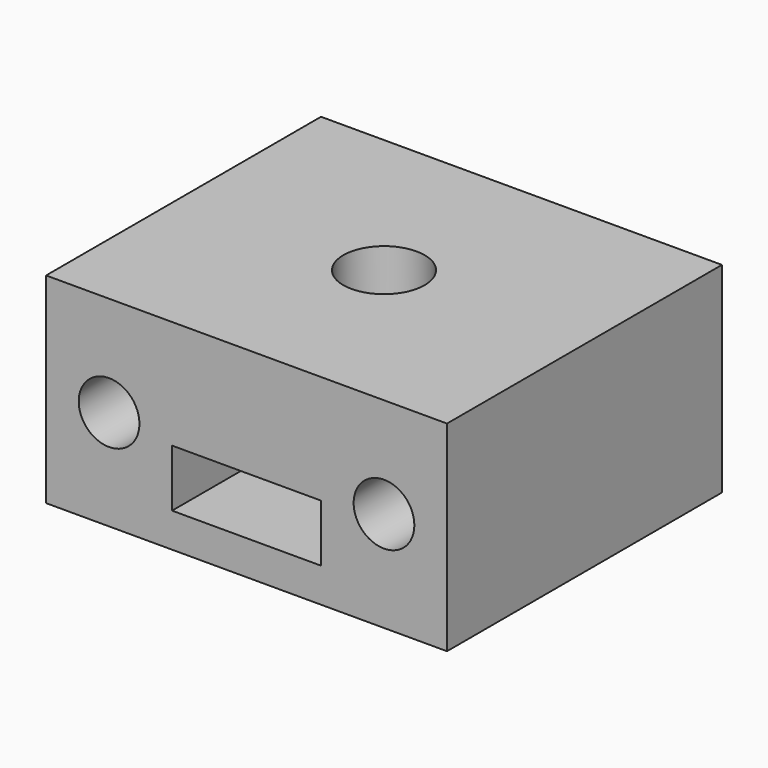
from build123d import *

# Parameters (mm, degrees)
SKETCH_W        = 35
SKETCH_H        = 17.5
SKETCH_R        = 2.65
SKETCH_W_2      = 13
SKETCH_H_2      = 5
PAD_DEPTH       = 30
SKETCH001_R     = 3.55
POCKET_DEPTH    = 17.501
SKETCH002_W     = 13
SKETCH002_H     = 7.5
POCKET001_DEPTH = 5


with BuildPart() as part:
    # Sketch → Pad (new body)
    with BuildSketch(Plane.XZ):
        Rectangle(SKETCH_W, SKETCH_H)
        with Locations((-12, 0)):
            Circle(SKETCH_R, mode=Mode.SUBTRACT)
        with Locations((12, 0)):
            Circle(SKETCH_R, mode=Mode.SUBTRACT)
        with Locations((0, -3.25)):
            Rectangle(SKETCH_W_2, SKETCH_H_2, mode=Mode.SUBTRACT)
    extrude(amount=PAD_DEPTH)

    # Sketch001 (on DatumPlane) → Pocket (cut, through all)
    with BuildSketch(Plane(origin=(0, 0, 8.75), x_dir=(-1, 0, 0), z_dir=(0, 0, 1))):
        with Locations((0, 15)):
            Circle(SKETCH001_R)
    extrude(amount=-POCKET_DEPTH, mode=Mode.SUBTRACT)

    # Sketch002 → Pocket001 (cut)
    with BuildSketch(Plane(origin=(0, 0, -7.5), x_dir=(1, 0, 0), z_dir=(0, 0, -1))):
        with Locations((0, 15)):
            Rectangle(SKETCH002_W, SKETCH002_H)
    extrude(amount=-POCKET001_DEPTH, mode=Mode.SUBTRACT)


solid = part.part
